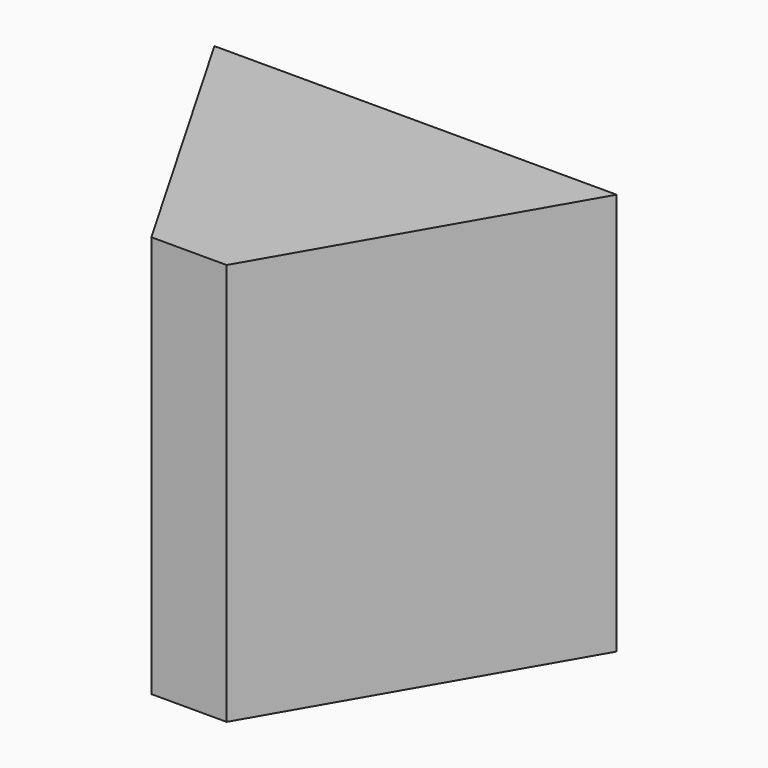
from build123d import *

# Parameters (mm, degrees)
F1_DEPTH = 88.9
F2_W     = 89.568419
F2_H     = 63.5
F3_DEPTH = 215.9
F4_R     = 16.129
F5_DEPTH = 16.764


with BuildPart() as f1:
    # F0 (on Top) → F1 (new body)
    with BuildSketch(Plane.XY):
        Polygon((44.45, 25.663219), (-44.45, 25.663219), (0, -51.326439), align=None)
    extrude(amount=F1_DEPTH)

    # F2 (on Top) → F3 (intersect)
    with BuildSketch(Plane.XY):
        with Locations((-0.249351, -5.168639)):
            Rectangle(F2_W, F2_H)
    extrude(amount=F3_DEPTH, mode=Mode.INTERSECT)

    # F4 (on Top) → F5 (cut)
    with BuildSketch(Plane.XY):
        Circle(F4_R)
    extrude(amount=F5_DEPTH, mode=Mode.SUBTRACT)


solid = f1.part
